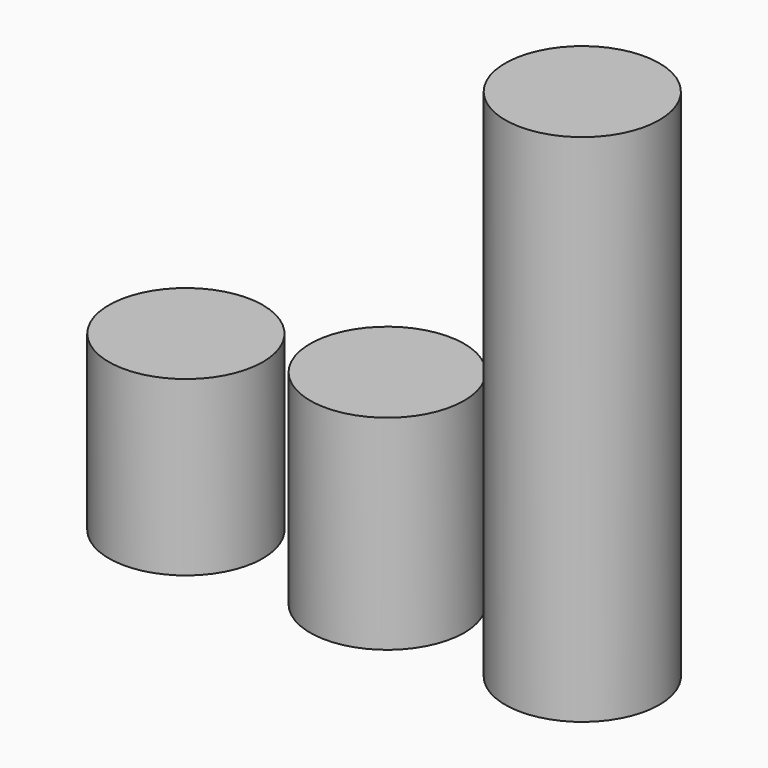
from build123d import *

# Parameters (mm, degrees)
F0_R     = 4.9
F1_DEPTH = 11
F2_DEPTH = 13
F3_DEPTH = 32.75


with BuildPart() as f1:
    # F0 (on Top) → F1 (new body)
    with BuildSketch(Plane.XY):
        with Locations((-39.327952, 13.27707)):
            Circle(F0_R)
    extrude(amount=F1_DEPTH)


with BuildPart() as f2:
    # F0 (on Top) → F2 (new body)
    with BuildSketch(Plane.XY):
        with Locations((-26.521225, 13.27707)):
            Circle(F0_R)
    extrude(amount=F2_DEPTH)


with BuildPart() as f3:
    # F0 (on Top) → F3 (new body)
    with BuildSketch(Plane.XY):
        with Locations((-14.10906, 13.27707)):
            Circle(F0_R)
    extrude(amount=F3_DEPTH)


solid = Compound([f1.part, f2.part, f3.part])
